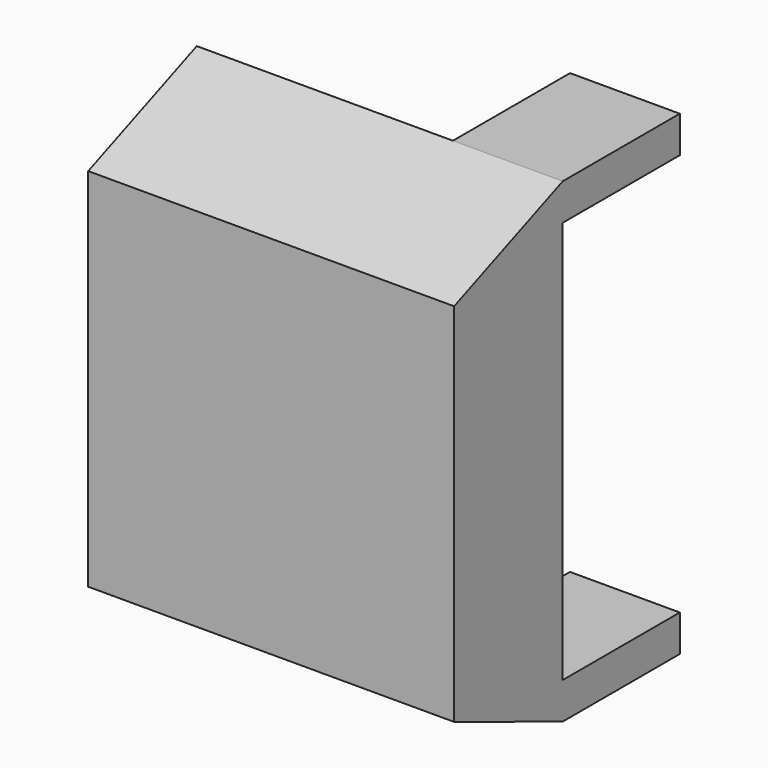
from build123d import *

# Parameters (mm, degrees)
F1_DEPTH  = 127
F0_W      = 50.8
F0_H      = 12.7
F2_DEPTH  = 63.5
F3_W      = 38.1
F3_H      = 12.7
F4_DEPTH  = 50.8
F5_R      = 3.81
F6_DEPTH  = 50.8
F7_R      = 3.81
F8_DEPTH  = 50.8
F9_R      = 3.81
F10_DEPTH = 50.8


with BuildPart() as f1:
    # F0 (on Right) → F1 (new body)
    with BuildSketch(Plane.YZ):
        Polygon((37.902087, -44.522293), (37.902087, 107.877707), (-9.190773, 88.827707), (-9.190773, -38.172293), (37.902087, -57.222293), align=None)
    extrude(amount=F1_DEPTH)

    # F0 (on Right) → F2 (join)
    with BuildSketch(Plane.YZ):
        with Locations((63.302087, -50.872293)):
            Rectangle(F0_W, F0_H)
    extrude(amount=F2_DEPTH)

    # F3 (on face) → F4 (join)
    with BuildSketch(Plane(origin=(0, 37.902087, 0), x_dir=(-1, 0, 0), z_dir=(0, 1, 0))):
        with Locations((-107.95, -50.872293)):
            Rectangle(F3_W, F3_H)
        with Locations((-107.95, 101.527707)):
            Rectangle(F3_W, F3_H)
    extrude(amount=F4_DEPTH)

    # F5 (on face) → F6 (cut)
    with BuildSketch(Plane(origin=(0, 88.702087, 0), x_dir=(-1, 0, 0), z_dir=(0, 1, 0))):
        with Locations((-96.52, 101.527707)):
            Circle(F5_R)
        with Locations((-119.38, 101.527707)):
            Circle(F5_R)
    extrude(amount=-F6_DEPTH, mode=Mode.SUBTRACT)

    # F7 (on face) → F8 (cut)
    with BuildSketch(Plane(origin=(0, 88.702087, 0), x_dir=(-1, 0, 0), z_dir=(0, 1, 0))):
        with Locations((-96.52, -50.872293)):
            Circle(F7_R)
        with Locations((-119.38, -50.872293)):
            Circle(F7_R)
    extrude(amount=-F8_DEPTH, mode=Mode.SUBTRACT)

    # F9 (on face) → F10 (cut)
    with BuildSketch(Plane(origin=(0, 88.702087, 0), x_dir=(-1, 0, 0), z_dir=(0, 1, 0))):
        with Locations((-55.88, -50.872293)):
            Circle(F9_R)
        with Locations((-7.62, -50.872293)):
            Circle(F9_R)
    extrude(amount=-F10_DEPTH, mode=Mode.SUBTRACT)


solid = f1.part
